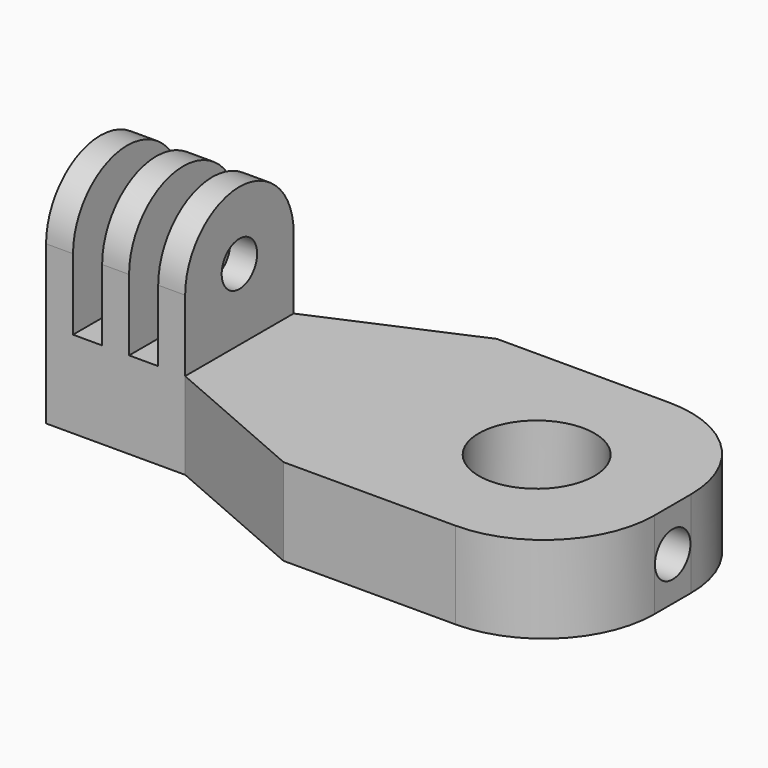
from build123d import *

# Parameters (mm, degrees)
SKETCH_R        = 6.65
PAD_DEPTH       = 10
SKETCH001_R     = 2.55
POCKET_DEPTH    = 10
SKETCH002_W     = 3.1
SKETCH002_H     = 15.6
PAD001_DEPTH    = 16
SKETCH003_R     = 2.55
POCKET001_DEPTH = 65.851


with BuildPart() as part:
    # Sketch → Pad (new body)
    with BuildSketch(Plane.XY):
        with BuildLine():
            Line((0, -15.35), (19.8, -15.35))
            ThreePointArc((19.8, -15.35), (28.780256, -11.630256), (32.5, -2.65))
            Line((32.5, -2.65), (32.5, 2.65))
            ThreePointArc((32.5, 2.65), (28.780256, 11.630256), (19.8, 15.35))
            Line((19.8, 15.35), (0, 15.35))
            Line((0, 15.35), (-17.35, 7.8))
            Line((-17.35, 7.8), (-33.35, 7.8))
            Line((-33.35, 7.8), (-33.35, -7.8))
            Line((-33.35, -7.8), (-17.35, -7.8))
            Line((-17.35, -7.8), (0, -15.35))
        make_face()
        with Locations((16.85, 0)):
            Circle(SKETCH_R, mode=Mode.SUBTRACT)
    extrude(amount=PAD_DEPTH)

    # Sketch001 (on Face3 of Pad) → Pocket (cut)
    with BuildSketch(Plane.YZ.offset(32.5)):
        with Locations((0, 5)):
            Circle(SKETCH001_R)
    extrude(amount=-POCKET_DEPTH, mode=Mode.SUBTRACT)

    # Sketch002 (on Face5 of Pocket) → Pad001 (join)
    with BuildSketch(Plane.XY.offset(10)):
        with Locations((-31.8, 0)):
            Rectangle(SKETCH002_W, SKETCH002_H)
        with Locations((-25.35, 0)):
            Rectangle(SKETCH002_W, SKETCH002_H)
        with Locations((-18.9, 0)):
            Rectangle(SKETCH002_W, SKETCH002_H)
    extrude(amount=PAD001_DEPTH)

    # Sketch003 (on Face24 of Pad001) → Pocket001 (cut, through all)
    with BuildSketch(Plane(origin=(-33.35, 0, 0), x_dir=(0, -1, 0), z_dir=(-1, 0, 0))):
        with Locations((0, 18.2)):
            Circle(SKETCH003_R)
        with BuildLine():
            ThreePointArc((7.8, 18.2), (0, 26), (-7.8, 18.2))
            Line((-7.8, 26.2), (-7.8, 18.2))
            Line((7.8, 26.2), (-7.8, 26.2))
            Line((7.8, 18.2), (7.8, 26.2))
        make_face()
    extrude(amount=-POCKET001_DEPTH, mode=Mode.SUBTRACT)


solid = part.part
